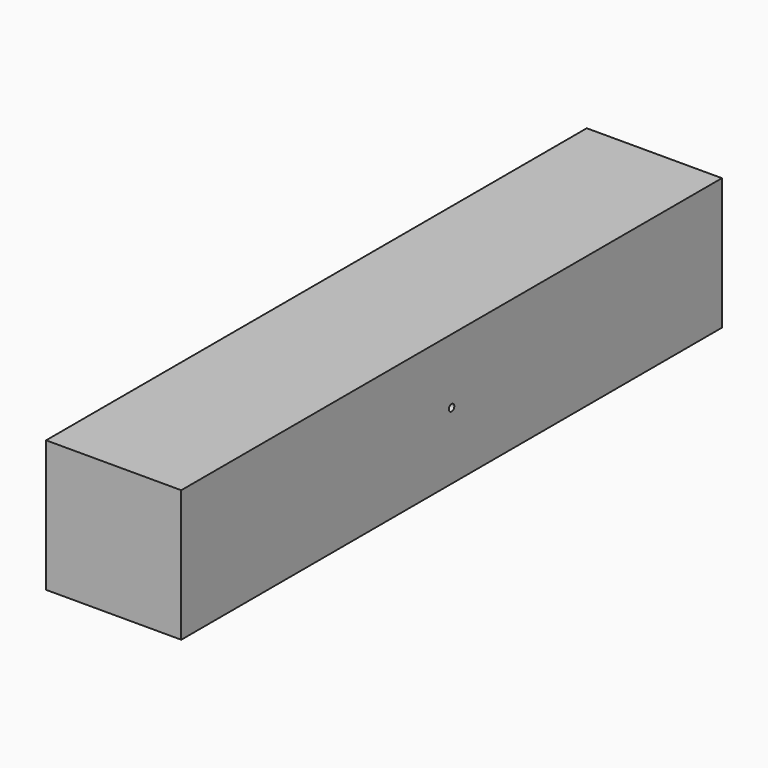
from build123d import *

# Parameters (mm, degrees)
F0_W     = 1000
F0_H     = 973.958764
F1_DEPTH = 5000


with BuildPart() as f1:
    # F0 (on Front) → F1 (new body)
    with BuildSketch(Plane.XZ):
        with Locations((5.845503, -8.006848)):
            Rectangle(F0_W, F0_H)
    extrude(amount=F1_DEPTH)

    # F3 (on Top) → F4 (revolve, cut)
    with BuildSketch(Plane.XY):
        Polygon((305.845503, -2500), (505.845503, -2500), (505.845503, -2475), align=None)
    revolve(axis=Axis((405.845503, -2500, 0), (1, 0, 0)), mode=Mode.SUBTRACT)


solid = f1.part
